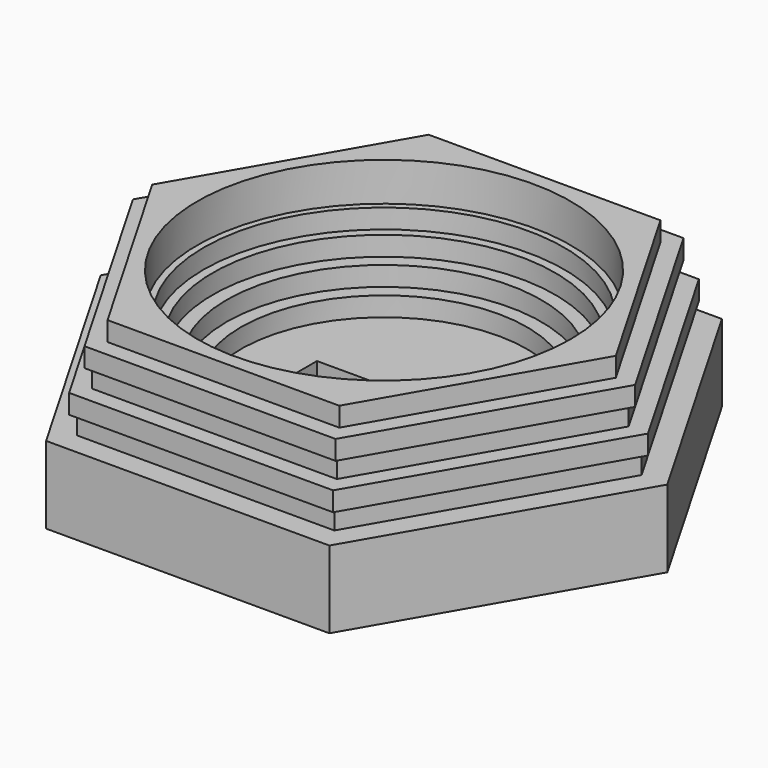
from build123d import *

# Parameters (mm, degrees)
PAD_DEPTH    = 9
SKETCH001_W  = 26.1
SKETCH001_H  = 34.4
POCKET_DEPTH = 3
SKETCH002_R  = 22.22
PAD001_DEPTH = 3
SKETCH003_R  = 24.44
PAD002_DEPTH = 3
SKETCH004_R  = 26.6
PAD003_DEPTH = 3
SKETCH005_R  = 28
PAD004_DEPTH = 3
SKETCH006_R  = 29
PAD005_DEPTH = 3
SKETCH007_R  = 29
PAD006_DEPTH = 3


with BuildPart() as part:
    # Sketch → Pad (new body)
    with BuildSketch(Plane.XY):
        Polygon((44, 0), (22, 38.105118), (-22, 38.105118), (-44, 0), (-22, -38.105118), (22, -38.105118), align=None)
    extrude(amount=PAD_DEPTH)

    # Sketch001 (on Face8 of Pad) → Pocket (cut)
    with BuildSketch(Plane.XY.offset(9)):
        with Locations((0, -13.905118)):
            Rectangle(SKETCH001_W, SKETCH001_H)
    extrude(amount=-POCKET_DEPTH, mode=Mode.SUBTRACT)

    # Sketch002 (on Face5 of Pocket) → Pad001 (join)
    with BuildSketch(Plane.XY.offset(9)):
        Polygon((22, 38.105118), (-22, 38.105118), (-44, 0), (-22, -38.105118), (22, -38.105118), (44, 0), align=None)
        Circle(SKETCH002_R, mode=Mode.SUBTRACT)
    extrude(amount=PAD001_DEPTH)

    # Sketch003 (on Face14 of Pad001) → Pad002 (join)
    with BuildSketch(Plane.XY.offset(12)):
        Polygon((40, 0), (20, 34.641016), (-20, 34.641016), (-40, 0), (-20, -34.641016), (20, -34.641016), align=None)
        Circle(SKETCH003_R, mode=Mode.SUBTRACT)
    extrude(amount=PAD002_DEPTH)

    # Sketch004 (on Face21 of Pad002) → Pad003 (join)
    with BuildSketch(Plane.XY.offset(15)):
        Polygon((41, 0), (20.5, 35.507042), (-20.5, 35.507042), (-41, 0), (-20.5, -35.507042), (20.5, -35.507042), align=None)
        Circle(SKETCH004_R, mode=Mode.SUBTRACT)
    extrude(amount=PAD003_DEPTH)

    # Sketch005 (on Face28 of Pad003) → Pad004 (join)
    with BuildSketch(Plane.XY.offset(18)):
        Polygon((19, 32.908965), (-19, 32.908965), (-38, 0), (-19, -32.908965), (19, -32.908965), (38, 0), align=None)
        Circle(SKETCH005_R, mode=Mode.SUBTRACT)
    extrude(amount=PAD004_DEPTH)

    # Sketch006 (on Face35 of Pad004) → Pad005 (join)
    with BuildSketch(Plane.XY.offset(21)):
        Polygon((39, 0), (19.5, 33.774991), (-19.5, 33.774991), (-39, 0), (-19.5, -33.774991), (19.5, -33.774991), align=None)
        Circle(SKETCH006_R, mode=Mode.SUBTRACT)
    extrude(amount=PAD005_DEPTH)

    # Sketch007 (on Face42 of Pad005) → Pad006 (join)
    with BuildSketch(Plane.XY.offset(24)):
        Polygon((36, 0), (18, 31.176915), (-18, 31.176915), (-36, 0), (-18, -31.176915), (18, -31.176915), align=None)
        Circle(SKETCH007_R, mode=Mode.SUBTRACT)
    extrude(amount=PAD006_DEPTH)


solid = part.part
